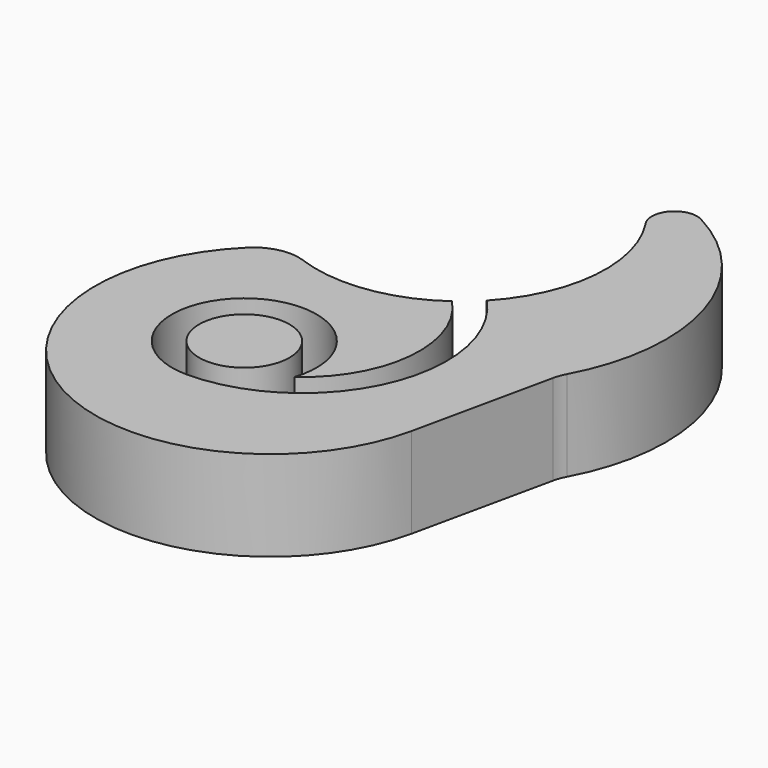
from build123d import *

# Parameters (mm, degrees)
F2_DEPTH = 2
F0_R     = 5
F3_DEPTH = 8


with BuildPart() as f2:
    # F1 (on Top) → F2 (new body)
    with BuildSketch(Plane.XY):
        with BuildLine():
            ThreePointArc((13.3352901354, 8.8413820755), (12.5684052501, -9.9012721137), (-5.473909682, -15.0345040754))
            ThreePointArc((-5.473909682, -15.0345040754), (-8.2417855801, -14.8458488198), (-10.6841578939, -16.1617307572))
            ThreePointArc((-10.6841578939, -16.1617307572), (-6.49143908, -46.9599083827), (21.8114936554, -34.112705003))
            Line((21.8114936554, -34.112705003), (25.1481622756, -18.7513405658))
            ThreePointArc((25.1481622756, -18.7513405658), (25.3446435428, -18.0783456566), (25.6333270757, -17.4394490656))
            ThreePointArc((25.6333270757, -17.4394490656), (27.3258914034, -0.6237467424), (16.5919494859, 12.4305670861))
            ThreePointArc((16.5919494859, 12.4305670861), (13.5674787289, 11.902767988), (13.3352901354, 8.8413820755))
        make_face()
    extrude(amount=-F2_DEPTH)

    # F0 (on Top) → F3 (join)
    with BuildSketch(Plane.XY):
        with BuildLine():
            ThreePointArc((9.3589739054, -12.9772727273), (2.1980630587, -15.8482970312), (-5.473909682, -15.0345040754))
            ThreePointArc((-5.473909682, -15.0345040754), (-8.2417855801, -14.8458488198), (-10.6841578939, -16.1617307572))
            ThreePointArc((-10.6841578939, -16.1617307572), (-6.49143908, -46.9599083827), (21.8114936554, -34.112705003))
            Line((21.8114936554, -34.112705003), (25.1481622756, -18.7513405658))
            ThreePointArc((25.1481622756, -18.7513405658), (25.3446435428, -18.0783456566), (25.6333270757, -17.4394490656))
            ThreePointArc((25.6333270757, -17.4394490656), (27.3258914034, -0.6237467424), (16.5919494859, 12.4305670861))
            ThreePointArc((16.5919494859, 12.4305670861), (13.5674787289, 11.902767988), (13.3352901354, 8.8413820755))
            ThreePointArc((13.3352901354, 8.8413820755), (15.9404716471, -1.3788994408), (11.6189500386, -11))
            ThreePointArc((11.6189500386, -11), (14.6969384567, -28.3245553203), (0, -38))
            ThreePointArc((0, -38), (-4.6636895265, -23.5), (7.5784954806, -32.5625))
            ThreePointArc((7.5784954806, -32.5625), (12.9466114923, -23.1769668084), (9.3589739054, -12.9772727273))
        make_face()
        with Locations((0, -30)):
            Circle(F0_R)
    extrude(amount=F3_DEPTH)


solid = f2.part
